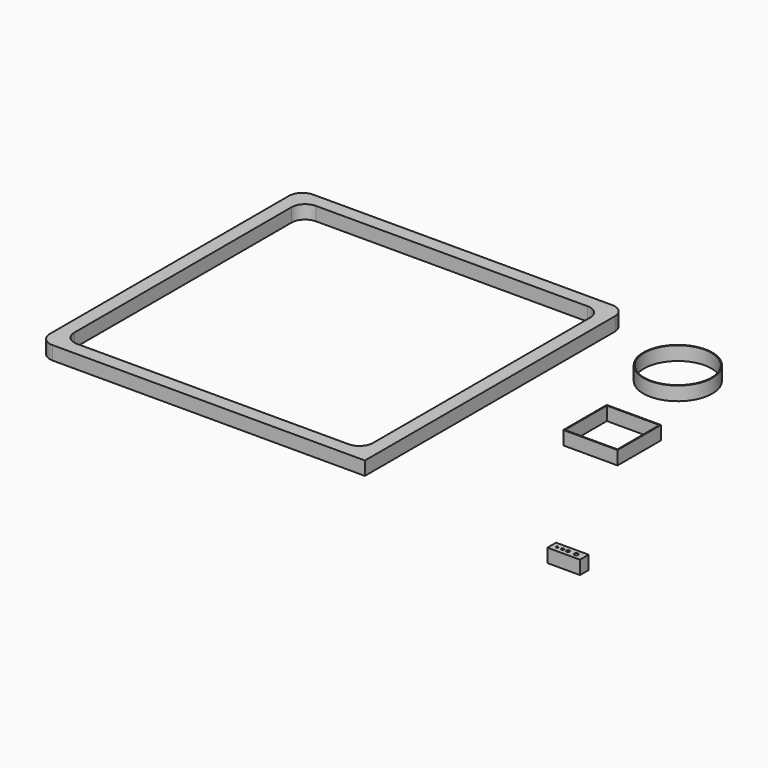
from build123d import *

# Parameters (mm, degrees)
F1_DEPTH = 6.35
F0_W     = 25.4
F0_H     = 25.4
F0_W_2   = 24.5872
F0_H_2   = 24.5872
F2_DEPTH = 6.35
F0_R     = 16.129
F0_R_2   = 15.72768
F3_DEPTH = 6.4516
F0_W_3   = 15.24
F0_H_3   = 5.08
F0_R_3   = 0.508
F0_R_4   = 0.635
F0_R_5   = 0.762
F0_R_6   = 0.889
F4_DEPTH = 6.35


with BuildPart() as f1:
    # F0 (on Top) → F1 (new body)
    with BuildSketch(Plane.XY):
        with BuildLine():
            Line((69.85, 76.2), (-69.85, 76.2))
            ThreePointArc((-69.85, 76.2), (-74.340128, 74.340128), (-76.2, 69.85))
            Line((-76.2, 69.85), (-76.2, -69.85))
            ThreePointArc((-76.2, -69.85), (-74.340128, -74.340128), (-69.85, -76.2))
            Line((-69.85, -76.2), (76.2, -76.2))
            Line((76.2, -76.2), (76.2, 69.85))
            ThreePointArc((76.2, 69.85), (74.340128, 74.340128), (69.85, 76.2))
        make_face()
        with BuildLine():
            ThreePointArc((-69.85, 63.5), (-67.990128, 67.990128), (-63.5, 69.85))
            Line((-63.5, 69.85), (63.5, 69.85))
            ThreePointArc((63.5, 69.85), (67.990128, 67.990128), (69.85, 63.5))
            Line((69.85, 63.5), (69.85, -63.5))
            ThreePointArc((69.85, -63.5), (67.990128, -67.990128), (63.5, -69.85))
            Line((63.5, -69.85), (-63.5, -69.85))
            ThreePointArc((-63.5, -69.85), (-67.990128, -67.990128), (-69.85, -63.5))
            Line((-69.85, -63.5), (-69.85, 63.5))
        make_face(mode=Mode.SUBTRACT)
    extrude(amount=F1_DEPTH)


with BuildPart() as f2:
    # F0 (on Top) → F2 (new body)
    with BuildSketch(Plane.XY):
        with Locations((130.390407, 0.580179)):
            Rectangle(F0_W, F0_H)
        with Locations((130.390407, 0.580179)):
            Rectangle(F0_W_2, F0_H_2, mode=Mode.SUBTRACT)
    extrude(amount=F2_DEPTH)


with BuildPart() as f3:
    # F0 (on Top) → F3 (new body)
    with BuildSketch(Plane.XY):
        with Locations((118.475519, 53.864006)):
            Circle(F0_R)
        with Locations((118.475519, 53.864006)):
            Circle(F0_R_2, mode=Mode.SUBTRACT)
    extrude(amount=F3_DEPTH)


with BuildPart() as f4:
    # F0 (on Top) → F4 (new body)
    with BuildSketch(Plane.XY):
        with Locations((178.907368, -85.855722)):
            Rectangle(F0_W_3, F0_H_3)
        with Locations((173.827368, -85.855722)):
            Circle(F0_R_3, mode=Mode.SUBTRACT)
        with Locations((176.367368, -85.855722)):
            Circle(F0_R_4, mode=Mode.SUBTRACT)
        with Locations((178.907368, -85.855722)):
            Circle(F0_R_5, mode=Mode.SUBTRACT)
        with Locations((182.717368, -85.855722)):
            Circle(F0_R_6, mode=Mode.SUBTRACT)
    extrude(amount=F4_DEPTH)


solid = Compound([f1.part, f2.part, f3.part, f4.part])
